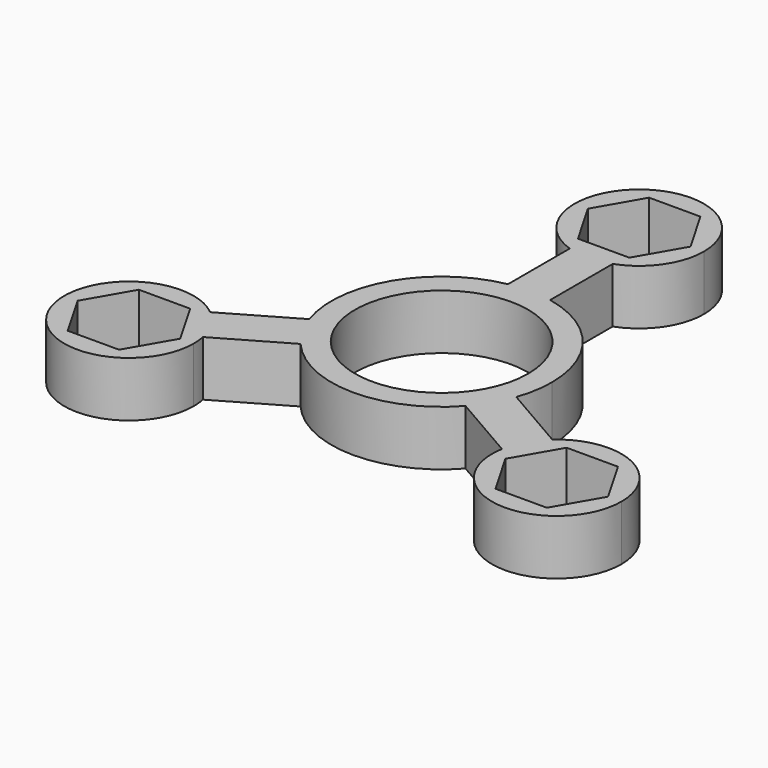
from build123d import *

# Parameters (mm, degrees)
F0_R     = 11
F1_DEPTH = 7


with BuildPart() as f1:
    # F0 (on Top) → F1 (new body)
    with BuildSketch(Plane.XY):
        with BuildLine():
            ThreePointArc((-2.577571, 23.56544), (0.124952, 23.151761), (2.813649, 23.647409))
            ThreePointArc((2.813649, 23.647409), (6.73351, 26.656757), (8.219155, 31.369967))
            ThreePointArc((8.219155, 31.369967), (-4.815031, 38.031046), (-2.577571, 23.56544))
        make_face()
        Polygon((6.520027, 31.369967), (3.260014, 25.723457), (-3.260014, 25.723457), (-6.520027, 31.369967), (-3.260014, 37.016476), (3.260014, 37.016476), align=None, mode=Mode.SUBTRACT)
        with BuildLine():
            ThreePointArc((-2.577571, 13.760673), (0.12029, 13.999483), (2.813649, 13.714349))
            Line((2.813649, 13.714349), (2.813649, 23.647409))
            ThreePointArc((2.813649, 23.647409), (0.124952, 23.151761), (-2.577571, 23.56544))
            Line((-2.577571, 23.56544), (-2.577571, 13.760673))
        make_face()
        with BuildLine():
            ThreePointArc((13.205878, -4.648095), (13.800042, -2.357722), (14, 0))
            ThreePointArc((14, 0), (10.848758, 8.848981), (2.813649, 13.714349))
            ThreePointArc((2.813649, 13.714349), (0.12029, 13.999483), (-2.577571, 13.760673))
            ThreePointArc((-2.577571, 13.760673), (-12.063763, 7.103916), (-13.283799, -4.420483))
            ThreePointArc((-13.283799, -4.420483), (-12.184053, -6.895568), (-10.628307, -9.112579))
            ThreePointArc((-10.628307, -9.112579), (-0.12029, -13.999483), (10.470151, -9.293866))
            ThreePointArc((10.470151, -9.293866), (12.063763, -7.103916), (13.205878, -4.648095))
        make_face()
        Circle(F0_R, mode=Mode.SUBTRACT)
        with BuildLine():
            ThreePointArc((-10.628307, -9.112579), (-12.184053, -6.895568), (-13.283799, -4.420483))
            Line((-13.283799, -4.420483), (-21.886082, -9.387013))
            ThreePointArc((-21.886082, -9.387013), (-20.112489, -11.467669), (-19.119484, -14.014962))
            Line((-19.119484, -14.014962), (-10.628307, -9.112579))
        make_face()
        with BuildLine():
            ThreePointArc((-19.119484, -14.014962), (-20.112489, -11.467669), (-21.886082, -9.387013))
            ThreePointArc((-21.886082, -9.387013), (-34.615703, -19.159769), (-18.948033, -15.684983))
            ThreePointArc((-18.948033, -15.684983), (-18.991008, -14.845584), (-19.119484, -14.014962))
        make_face()
        Polygon((-30.427202, -10.038474), (-23.907174, -10.038474), (-20.647161, -15.684983), (-23.907174, -21.331493), (-30.427202, -21.331493), (-33.687215, -15.684983), align=None, mode=Mode.SUBTRACT)
        with BuildLine():
            Line((21.697055, -9.550478), (13.205878, -4.648095))
            ThreePointArc((13.205878, -4.648095), (12.063763, -7.103916), (10.470151, -9.293866))
            Line((10.470151, -9.293866), (19.072433, -14.260396))
            ThreePointArc((19.072433, -14.260396), (19.987538, -11.684092), (21.697055, -9.550478))
        make_face()
        with BuildLine():
            ThreePointArc((35.386343, -15.684983), (30.528337, -8.184504), (21.697055, -9.550478))
            ThreePointArc((21.697055, -9.550478), (19.987538, -11.684092), (19.072433, -14.260396))
            ThreePointArc((19.072433, -14.260396), (26.452184, -23.872979), (35.386343, -15.684983))
        make_face()
        Polygon((23.907174, -21.331493), (20.647161, -15.684983), (23.907174, -10.038474), (30.427202, -10.038474), (33.687215, -15.684983), (30.427202, -21.331493), align=None, mode=Mode.SUBTRACT)
    extrude(amount=F1_DEPTH)


solid = f1.part
